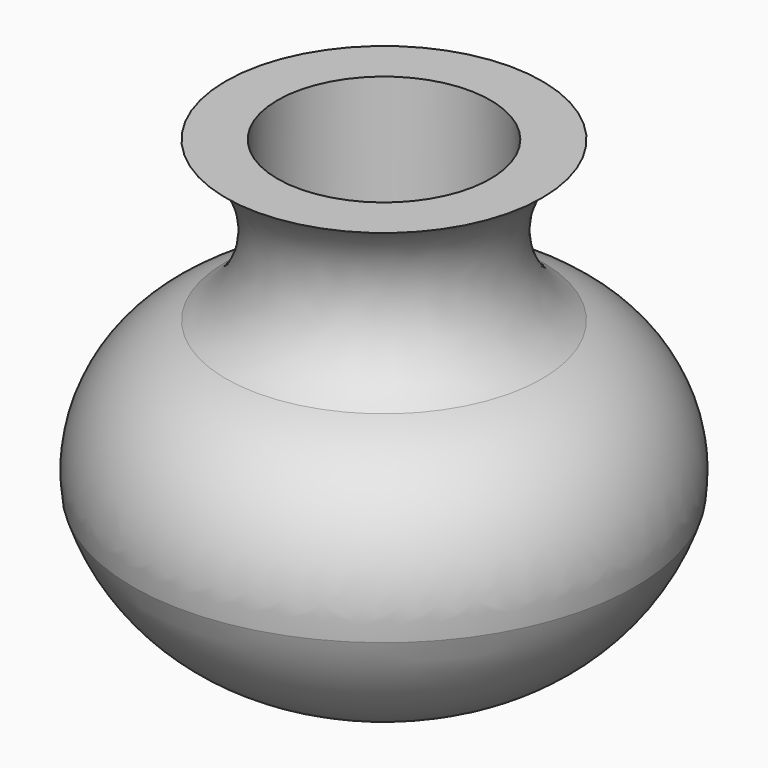
from build123d import *


with BuildPart() as f1:
    # F0 (on Front) → F1 (revolve)
    with BuildSketch(Plane.XZ):
        with BuildLine():
            Line((-8.808441, -46.244312), (0, -46.244312))
            Line((0, -46.244312), (0, 35.41727))
            Line((0, 35.41727), (-28.076904, 35.41727))
            ThreePointArc((-28.076904, 35.41727), (-20.184994, 21.287064), (-28.076904, 7.156858))
            ThreePointArc((-28.076904, 7.156858), (-41.247046, -3.435655), (-44.592731, -20.002501))
            ThreePointArc((-44.592731, -20.002501), (-30.995982, -38.980766), (-8.808441, -46.244312))
        make_face()
    revolve(axis=Axis((0, 0, -5.413521), (0, 0, -1)))

    # F2 (on Front) → F3 (revolve, cut)
    with BuildSketch(Plane.XZ):
        Polygon((0, 35.600781), (-18.901445, 35.600781), (-18.901445, 1.651583), (-39.087456, -18.534428), (-18.901445, -42.390618), (0, -42.390618), align=None)
    revolve(axis=Axis((0, 0, -3.394919), (0, 0, 1)), mode=Mode.SUBTRACT)


solid = f1.part
